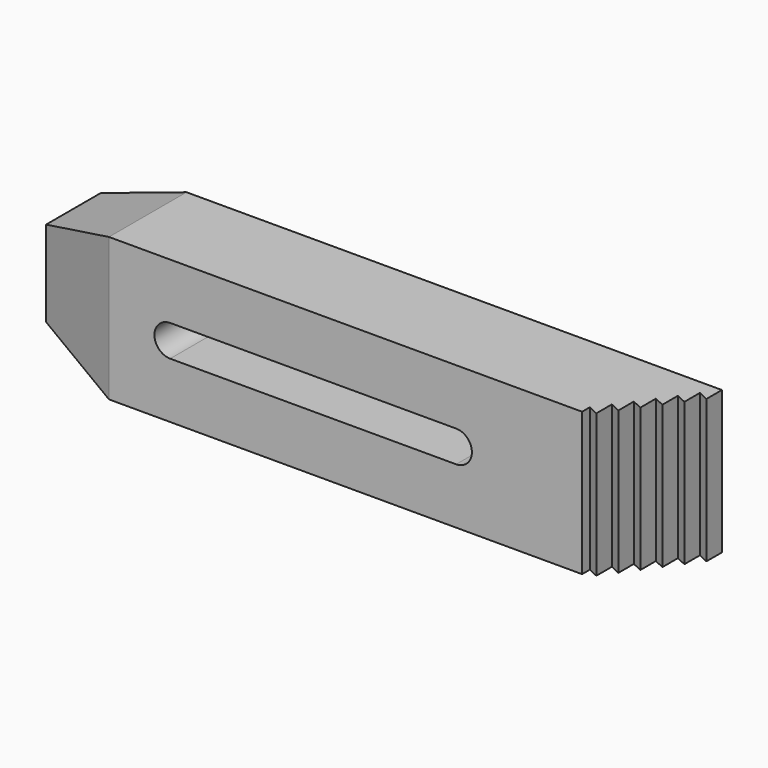
from build123d import *

# Parameters (mm, degrees)
F1_DEPTH   = 25
F1_FACE1_W = 97.703975
F1_FACE1_H = 25
F3_DEPTH   = 25
F4_SIZE2   = 15
F4_SIZE    = 5


with BuildPart() as f1:
    # F0 (on Top) → F1 (new body)
    with BuildSketch(Plane.XY):
        Polygon((-54.298416, 8.472222), (-54.298416, -8.472222), (43.405559, -8.472222), (43.405559, -6.781688), (45.221035, -7.628259), (45.221035, -4.23937), (47.036511, -5.08594), (47.036511, -1.697051), (48.851987, -2.543622), (48.851987, 0.845267), (50.667464, -0.001303), (50.667464, 3.387586), (52.48294, 2.541015), (52.48294, 5.929904), (54.298416, 5.083334), (54.298416, 8.472222), align=None)
    extrude(amount=F1_DEPTH)

    # F2 (on face) + F1_face1 (on face) → F3 (cut)
    with BuildSketch(Plane(origin=(0, 8.472222, 0), x_dir=(-1, 0, 0), z_dir=(0, 1, 0))):
        with BuildLine():
            Line((-21.3955357732, 9.75), (28.6044642268, 9.75))
            ThreePointArc((28.6044642268, 9.75), (31.3544642268, 12.5), (28.6044642268, 15.25))
            Line((28.6044642268, 15.25), (-21.3955357732, 15.25))
            ThreePointArc((-21.3955357732, 15.25), (-24.1455357732, 12.5), (-21.3955357732, 9.75))
        make_face()
    with BuildSketch(Plane(origin=(-5.4464285, -8.472222, 12.5), x_dir=(1, 0, 0), z_dir=(0, -1, 0))):
        Rectangle(F1_FACE1_W, F1_FACE1_H)
    extrude(amount=-F3_DEPTH, dir=(0, 1, 0), mode=Mode.SUBTRACT)

    # F4
    f4_edges = [f1.edges().sort_by_distance(p)[0] for p in [
        (-54.298416, 0, 25),
        (-54.298416, 0, 0),
        (-54.298416, -8.472222, 12.5),
    ]]
    f4_side = f1.faces().sort_by_distance((-54.298416, 0, 12.5))[0]
    chamfer(f4_edges, length=F4_SIZE, length2=F4_SIZE2, reference=f4_side)


solid = f1.part
